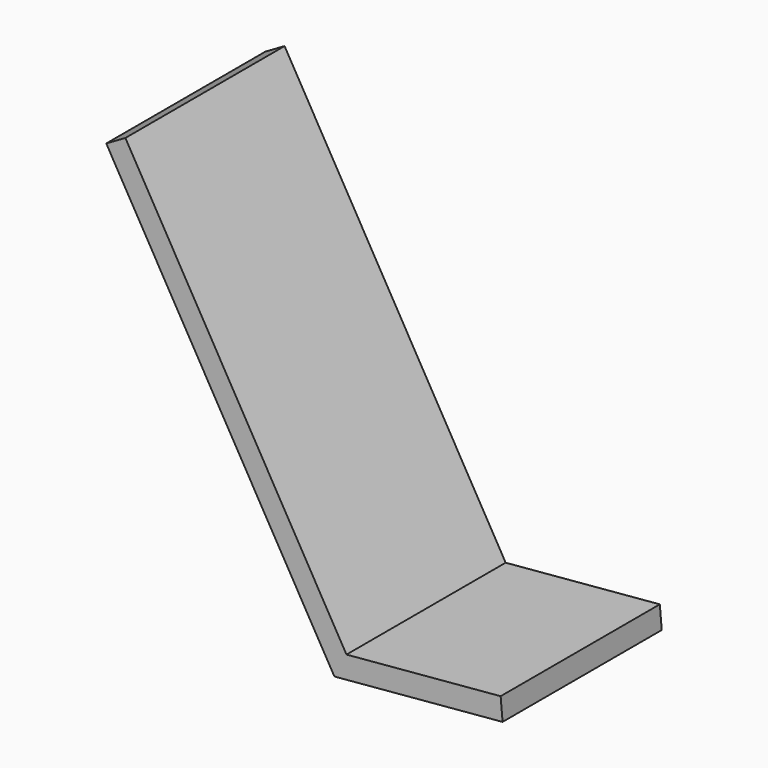
from build123d import *

# Parameters (mm, degrees)
PAD_DEPTH = 450


with BuildPart() as part:
    # Sketch → Pad (new body)
    with BuildSketch(Plane.XZ):
        Polygon((376.042658, 83.090461), (27.374514, 52.585951), (-472.625486, 918.611355), (-515.926757, 893.611355), (0, 0), (380.400445, 33.280727), align=None)
    extrude(amount=PAD_DEPTH)


solid = part.part
